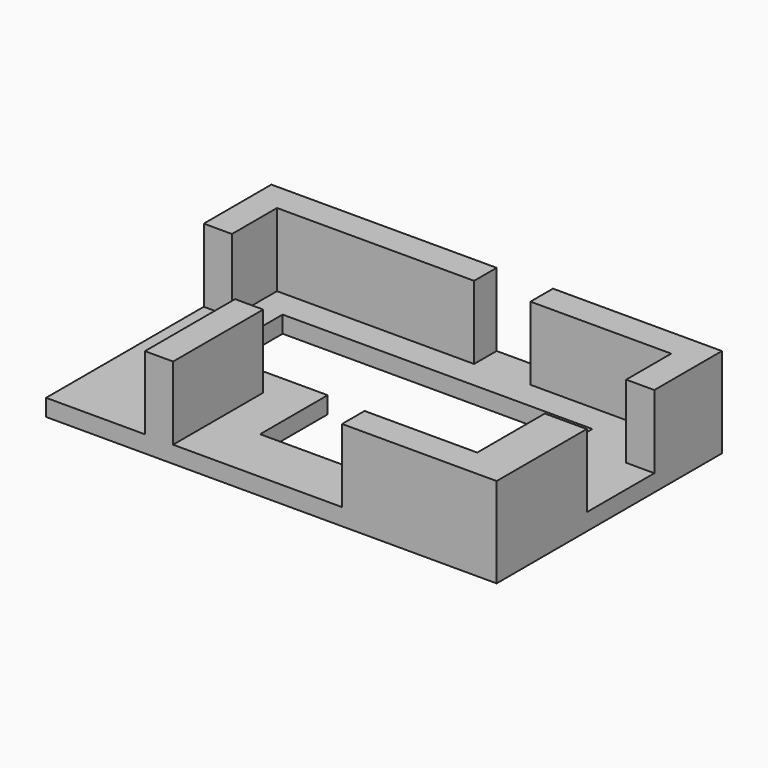
from build123d import *

# Parameters (mm, degrees)
F0_W     = 80
F0_H     = 50
F1_DEPTH = 3
F3_DEPTH = 16
F5_DEPTH = 25


with BuildPart() as f1:
    # F0 (on Top) → F1 (new body)
    with BuildSketch(Plane.XY):
        Rectangle(F0_W, F0_H)
    extrude(amount=F1_DEPTH)

    # F2 (on Top) → F3 (join)
    with BuildSketch(Plane.XY):
        Polygon((-35, 20), (0, 20), (0, 25), (-40, 25), (-40, 10), (-35, 10), align=None)
        Polygon((40, 25), (10, 25), (10, 20), (35, 20), (35, 10), (40, 10), align=None)
        Polygon((40, -25), (40, -5), (32.552384, -5), (32.552384, -20), (12.552384, -20), (12.552384, -25), align=None)
        Polygon((-22.447616, -25), (-17.447616, -25), (-17.447616, -5), (-22.447616, -5), (-22.447616, -20), align=None)
    extrude(amount=F3_DEPTH)


with BuildPart() as f5:
    # F4 (on Top) → F5 (new body)
    with BuildSketch(Plane.XY):
        Polygon((-30, 0), (-10, 0), (-10, -15), (25, -15), (25, 15), (-30, 15), align=None)
    extrude(amount=F5_DEPTH)


with BuildPart() as f1_1:
    add(f1.part)

    # F6: cut F5
    add(f5.part, mode=Mode.SUBTRACT)


solid = f1_1.part
